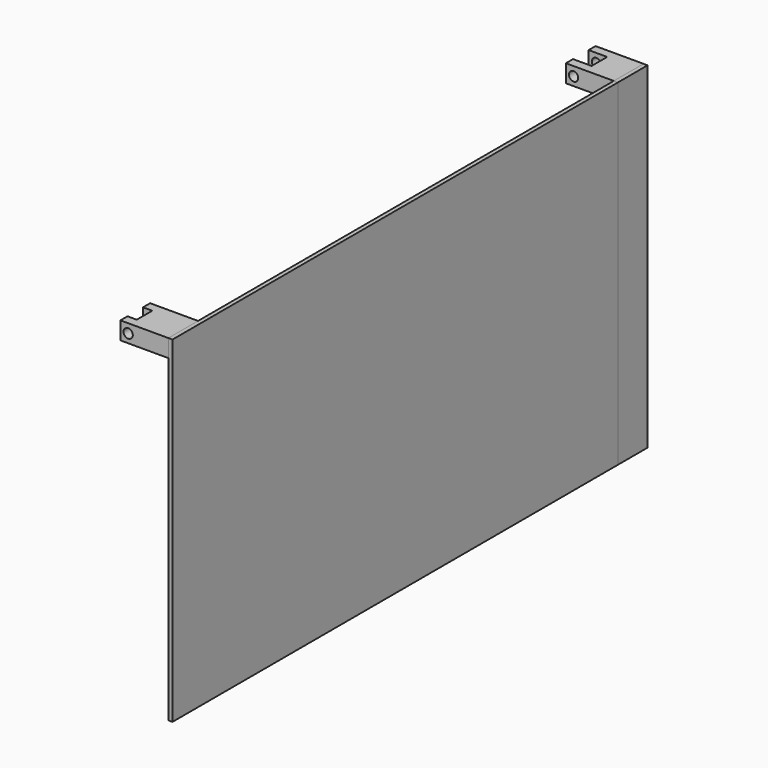
from build123d import *

# Parameters (mm, degrees)
F0_W      = 131.2171369791
F0_H      = 48.365816474
F1_DEPTH  = 101.6
F2_W      = 11.2009495497
F2_H      = 921.3137179613
F3_DEPTH  = 1524
F4_DEPTH  = 101.6
F5_DEPTH  = 101.6
F6_W      = 131.2171369791
F6_H      = 48.365816474
F7_DEPTH  = 101.6
F8_W      = 53.081035614
F8_H      = 48.365816474
F9_DEPTH  = 25.4
F11_D     = 25.4
F11_2_D   = 25.4
F12_W     = 53.4534361213
F12_H     = 48.365816474
F13_DEPTH = 50.8


with BuildPart() as f1:
    # F0 (on Front) → F1 (new body)
    with BuildSketch(Plane.XZ):
        with Locations((65.6085684896, 24.182908237)):
            Rectangle(F0_W, F0_H)
    extrude(amount=-F1_DEPTH)



with BuildPart() as f3:
    # F2 (on face) → F3 (new body)
    with BuildSketch(Plane.XZ):
        with Locations((136.8176117539, -412.2910425067)):
            Rectangle(F2_W, F2_H)
    extrude(amount=F3_DEPTH)


with BuildPart() as f1_1:
    add(f1.part)
    # F4 (add): a face of the model
    f4_faces = [f3.part.faces().sort_by_distance(p)[0] for p in [
        (136.8176117539, 0, -412.2910425067),
    ]]

    add(f3.part)  # F4 merges F3
    extrude(f4_faces, amount=-F4_DEPTH)


with BuildPart() as f5:
    # F5 (new): a face of the model
    f5_faces = [f1_1.part.faces().sort_by_distance(p)[0] for p in [
        (136.8176117539, 0, -412.2910425067),
    ]]
    extrude(f5_faces, amount=F5_DEPTH)


with BuildPart() as f7:
    # F6 (on face) → F7 (new body)
    with BuildSketch(Plane.XZ.offset(1524)):
        with Locations((65.6085684896, 24.182908237)):
            Rectangle(F6_W, F6_H)
    extrude(amount=-F7_DEPTH)

    # F8 (on face) → F9 (cut)
    with BuildSketch(Plane(origin=(0, 0, 0), x_dir=(0, -1, 0), z_dir=(-1, 0, 0))):
        with Locations((1473.2800722122, 24.182908237)):
            Rectangle(F8_W, F8_H)
    extrude(amount=-F9_DEPTH, mode=Mode.SUBTRACT)

    # F11#2 (through all)
    with Locations(Plane.XZ.offset(1524)):
        with Locations((21.2162621319, 23.7196236849)):
            Hole(F11_2_D / 2)


with BuildPart() as f1_2:
    add(f1_1.part)

    # F11 (through all)
    with Locations(Plane.XZ.offset(1524)):
        with Locations((21.2162621319, 23.7196236849)):
            Hole(F11_D / 2)

    # F12 (on face) → F13 (cut)
    with BuildSketch(Plane(origin=(0, 0, 0), x_dir=(0, -1, 0), z_dir=(-1, 0, 0))):
        with Locations((-51.2164803222, 24.182908237)):
            Rectangle(F12_W, F12_H)
    extrude(amount=-F13_DEPTH, mode=Mode.SUBTRACT)


solid = Compound([f5.part, f7.part, f1_2.part])
